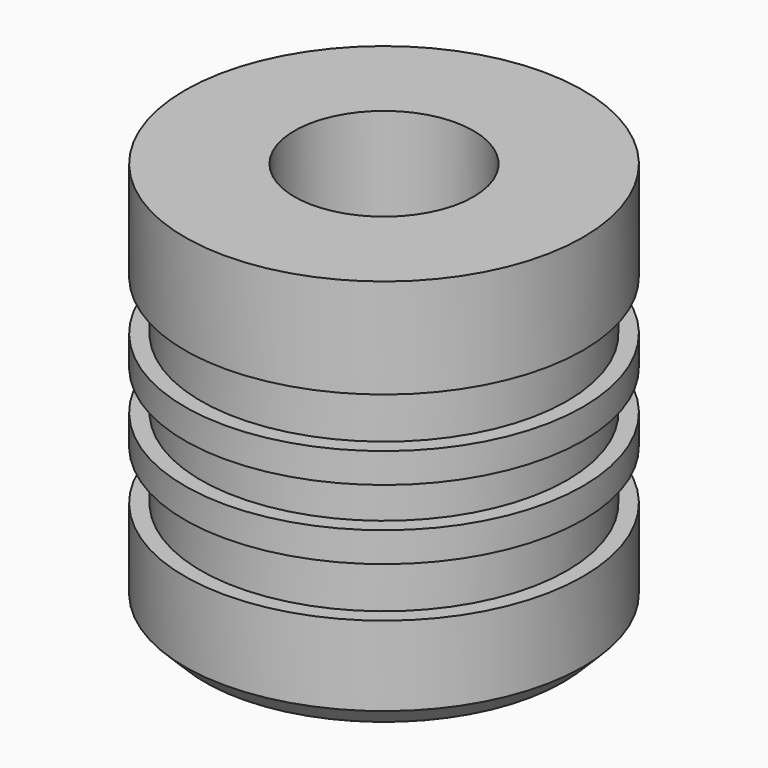
from build123d import *

# Parameters (mm, degrees)
F0_R          = 12.7
F1_DEPTH      = 25.4
F2_R          = 5.7092426067
F3_DEPTH      = 19.05
F5_R          = 12.7
F5_R_2        = 11.6839995608
F6_DEPTH      = 6.35
F6_DEPTH_BACK = 6.35
F7_DEPTH      = 3.175
F7_DEPTH_BACK = 3.175
F8_DEPTH      = 1.27
F8_DEPTH_BACK = 1.27
F9_SIZE       = 1.27


with BuildPart() as f1:
    # F0 (on Top) → F1 (new body)
    with BuildSketch(Plane.XY):
        Circle(F0_R)
    extrude(amount=F1_DEPTH)

    # F2 (on face) → F3 (cut)
    with BuildSketch(Plane.XY.offset(25.4)):
        Circle(F2_R)
    extrude(amount=-F3_DEPTH, mode=Mode.SUBTRACT)

    # F5 (on offset) → F6 (cut, two sides)
    with BuildSketch(Plane.XY.offset(12.7)) as f6_sk:
        Circle(F5_R)
        Circle(F5_R_2, mode=Mode.SUBTRACT)
    extrude(amount=-F6_DEPTH, mode=Mode.SUBTRACT)
    extrude(f6_sk.sketch, amount=F6_DEPTH_BACK, mode=Mode.SUBTRACT)

    # F5 (on offset) → F7 (join, two sides)
    with BuildSketch(Plane.XY.offset(12.7)) as f7_sk:
        Circle(F5_R)
        Circle(F5_R_2, mode=Mode.SUBTRACT)
    extrude(amount=F7_DEPTH)
    extrude(f7_sk.sketch, amount=-F7_DEPTH_BACK)

    # F5 (on offset) → F8 (cut, two sides)
    with BuildSketch(Plane.XY.offset(12.7)) as f8_sk:
        Circle(F5_R)
        Circle(F5_R_2, mode=Mode.SUBTRACT)
    extrude(amount=-F8_DEPTH, mode=Mode.SUBTRACT)
    extrude(f8_sk.sketch, amount=F8_DEPTH_BACK, mode=Mode.SUBTRACT)

    # F9
    f9_edges = [f1.edges().sort_by_distance(p)[0] for p in [
        (-12.7, 0, 0),
    ]]
    chamfer(f9_edges, length=F9_SIZE)


solid = f1.part
